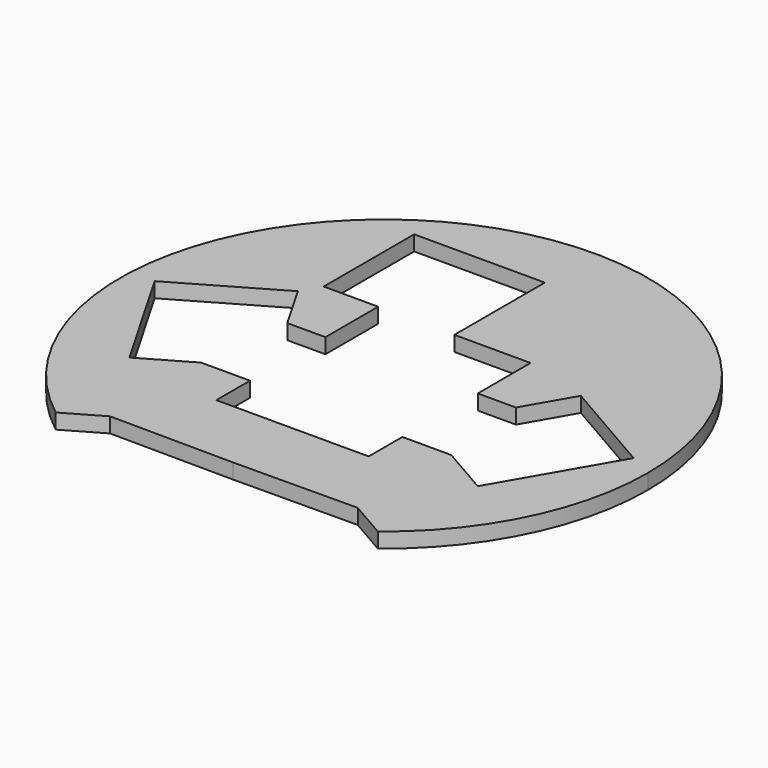
from build123d import *

# Parameters (mm, degrees)
F1_DEPTH = 6


with BuildPart() as f1:
    # F0 (on Top) → F1 (new body)
    with BuildSketch(Plane.XY):
        with BuildLine():
            ThreePointArc((64.075859, -83.182236), (94.215087, -46.352103), (105, 0))
            ThreePointArc((105, 0), (-46.352103, 94.215087), (-64.075859, -83.182236))
            Line((-64.075859, -83.182236), (-49.282032, -74.641016))
            Line((-49.282032, -74.641016), (0, -75))
            Line((0, -75), (49.282032, -74.641016))
            Line((49.282032, -74.641016), (64.075859, -83.182236))
        make_face()
        Polygon((-49.796461, -28.75), (-69.282032, -40), (-89.282032, -5.358984), (-95.282032, 5.033321), (-56.310889, 27.533321), (-45.466334, 8.75), (-30.310889, 8.75), (-30.310889, 35), (-52, 35), (-52, 80), (0, 80), (0, 35), (30.310889, 35), (30.310889, 8.75), (45.466334, 8.75), (56.310889, 27.533321), (95.282032, 5.033321), (89.282032, -5.358984), (69.282032, -40), (49.796461, -28.75), (30.310889, -28.75), (30.310889, -45.5), (-30.310889, -45.5), (-30.310889, -28.75), align=None, mode=Mode.SUBTRACT)
    extrude(amount=F1_DEPTH)


solid = f1.part
